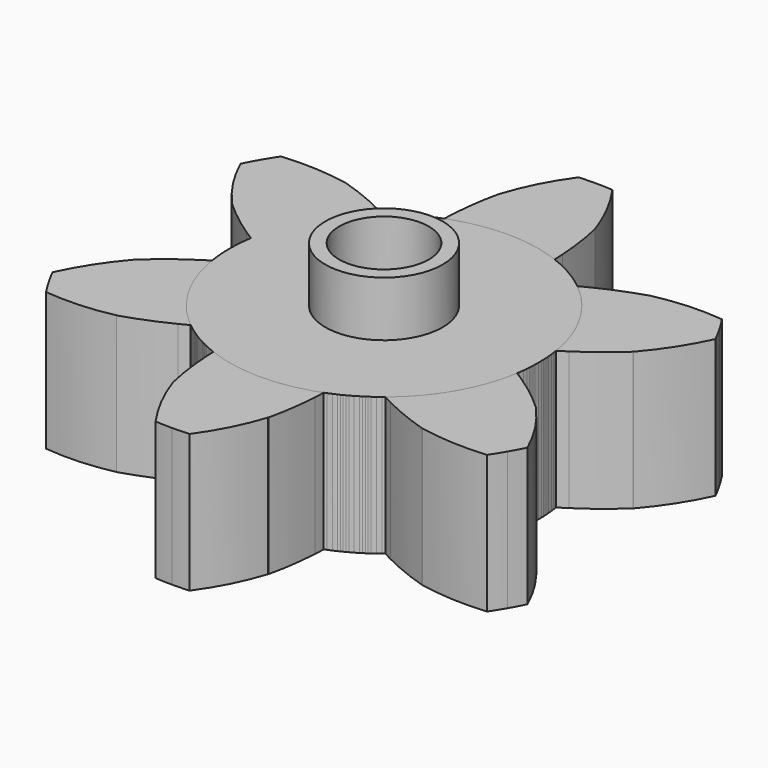
from build123d import *

# Parameters (mm, degrees)
F1_DEPTH = 12.7
F2_COUNT = 6
F3_R     = 4.1275
F4_DEPTH = 25.4
F5_R     = 5.3975
F5_R_2   = 4.1275
F6_DEPTH = 5.08


with BuildPart() as f1:
    # F0 (on Top) → F1 (new body)
    with BuildSketch(Plane.XY):
        with BuildLine():
            ThreePointArc((0, 19.304), (2.209384841, 19.1771487616), (4.3897328809, 18.7982621865))
            ThreePointArc((4.3897328809, 18.7982621865), (3.169400646, 21.6658446075), (1.5592239792, 24.3340969954))
            ThreePointArc((1.5592239792, 24.3340969954), (0.7800111741, 24.3715210557), (0, 24.384))
            Line((0, 24.384), (0, 19.304))
        make_face()
        with BuildLine():
            ThreePointArc((-1.5605116, 24.334014456), (-3.1867661988, 21.6801927129), (-4.3722618118, 18.8023334363))
            ThreePointArc((-4.3722618118, 18.8023334363), (-2.2004739656, 19.1781732792), (0, 19.304))
            Line((0, 19.304), (0, 24.384))
            ThreePointArc((0, 24.384), (-0.7806559755, 24.3715004103), (-1.5605116, 24.334014456))
        make_face()
        with BuildLine():
            ThreePointArc((5.08, 13.2859239799), (2.5829434091, 13.987515124), (0, 14.224))
            ThreePointArc((0, 14.224), (-2.5829434091, 13.987515124), (-5.08, 13.2859239799))
            ThreePointArc((-5.08, 13.2859239799), (-8.0642499961, -11.7170835962), (14.224, 0))
            ThreePointArc((14.224, 0), (11.7170835962, 8.0642499961), (5.08, 13.2859239799))
        make_face()
        with BuildLine():
            ThreePointArc((-4.3722618118, 18.8023334363), (-4.3815517662, 18.8001707471), (-4.3908406509, 18.7980034679))
            ThreePointArc((-4.3908406509, 18.7980034679), (-4.8105950781, 16.5244618609), (-5.0409436067, 14.224))
            Line((-5.0409436067, 14.224), (0, 14.224))
            Line((0, 14.224), (0, 19.304))
            ThreePointArc((0, 19.304), (-2.2004739656, 19.1781732792), (-4.3722618118, 18.8023334363))
        make_face()
        with BuildLine():
            ThreePointArc((4.3928229559, 18.7892941844), (4.3912783978, 18.7937783506), (4.3897328809, 18.7982621865))
            ThreePointArc((4.3897328809, 18.7982621865), (2.209384841, 19.1771487616), (0, 19.304))
            Line((0, 19.304), (0, 14.224))
            Line((0, 14.224), (5.0409436067, 14.224))
            ThreePointArc((5.0409436067, 14.224), (4.8112231634, 16.5200402325), (4.3928229559, 18.7892941844))
        make_face()
        with BuildLine():
            ThreePointArc((5.08, 13.2859239799), (5.0644124402, 13.7551260567), (5.0409436067, 14.224))
            Line((5.0409436067, 14.224), (0, 14.224))
            ThreePointArc((0, 14.224), (2.5829434091, 13.987515124), (5.08, 13.2859239799))
        make_face()
        with BuildLine():
            Line((0, 14.224), (-5.0409436067, 14.224))
            ThreePointArc((-5.0409436067, 14.224), (-5.0644124402, 13.7551260567), (-5.08, 13.2859239799))
            ThreePointArc((-5.08, 13.2859239799), (-2.5829434091, 13.987515124), (0, 14.224))
        make_face()
    extrude(amount=F1_DEPTH)


with BuildPart() as f2_1:
    # F2: instance of F1
    add(f1.part.rotate(Axis((0, 0, 0), (0, 0, -1)), 1 * 360 / F2_COUNT))


with BuildPart() as f2_2:
    # F2: instance of F1
    add(f1.part.rotate(Axis((0, 0, 0), (0, 0, -1)), 2 * 360 / F2_COUNT))


with BuildPart() as f2_3:
    # F2: instance of F1
    add(f1.part.rotate(Axis((0, 0, 0), (0, 0, -1)), 3 * 360 / F2_COUNT))


with BuildPart() as f2_4:
    # F2: instance of F1
    add(f1.part.rotate(Axis((0, 0, 0), (0, 0, -1)), 4 * 360 / F2_COUNT))


with BuildPart() as f2_5:
    # F2: instance of F1
    add(f1.part.rotate(Axis((0, 0, 0), (0, 0, -1)), 5 * 360 / F2_COUNT))


with BuildPart() as f4_tool:
    # F3 (on face) → F4 (new body)
    with BuildSketch(Plane.XY.offset(12.7)):
        Circle(F3_R)
    extrude(amount=-F4_DEPTH)


with BuildPart() as f1_1:
    add(f1.part)

    # F4: cut by f4_tool
    add(f4_tool.part, mode=Mode.SUBTRACT)


with BuildPart() as f2_1_1:
    add(f2_1.part)

    # F4: cut by f4_tool
    add(f4_tool.part, mode=Mode.SUBTRACT)


with BuildPart() as f2_2_1:
    add(f2_2.part)

    # F4: cut by f4_tool
    add(f4_tool.part, mode=Mode.SUBTRACT)


with BuildPart() as f2_3_1:
    add(f2_3.part)

    # F4: cut by f4_tool
    add(f4_tool.part, mode=Mode.SUBTRACT)


with BuildPart() as f2_4_1:
    add(f2_4.part)

    # F4: cut by f4_tool
    add(f4_tool.part, mode=Mode.SUBTRACT)


with BuildPart() as f2_5_1:
    add(f2_5.part)

    # F4: cut by f4_tool
    add(f4_tool.part, mode=Mode.SUBTRACT)


with BuildPart() as f6:
    # F5 (on face) → F6 (new body)
    with BuildSketch(Plane.XY.offset(12.7)):
        Circle(F5_R)
        Circle(F5_R_2, mode=Mode.SUBTRACT)
    extrude(amount=F6_DEPTH)


solid = Compound([f1_1.part, f2_1_1.part, f2_2_1.part, f2_3_1.part, f2_4_1.part, f2_5_1.part, f6.part])
